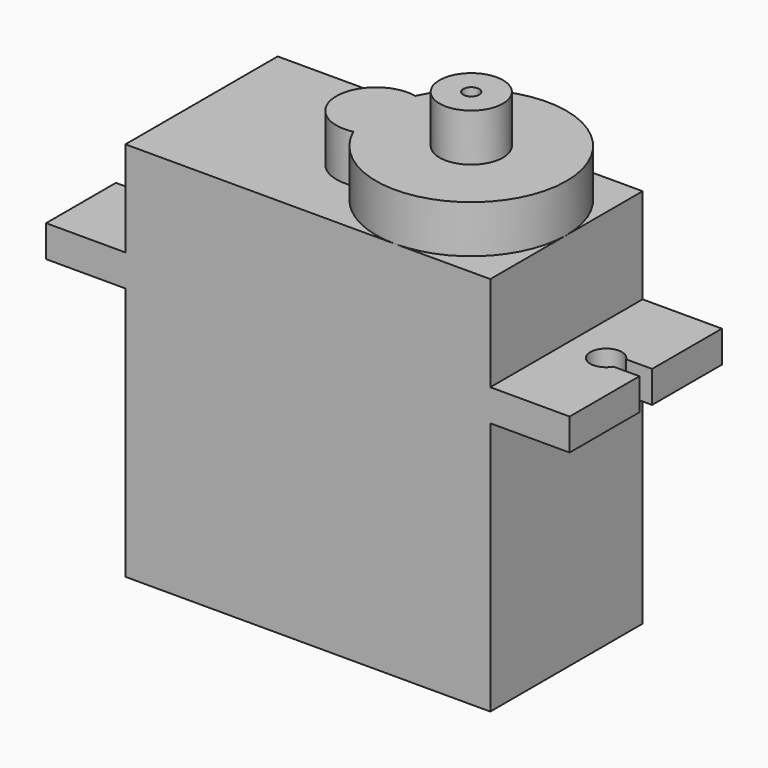
from build123d import *

# Parameters (mm, degrees)
F0_W      = 23
F0_H      = 12
F1_DEPTH  = 16
F2_W      = 33
F2_H      = 12
F3_DEPTH  = 2
F4_W      = 23
F4_H      = 12
F5_DEPTH  = 6
F7_DEPTH  = 3
F8_R      = 2
F9_DEPTH  = 3
F11_DEPTH = 18.001
F12_R     = 0.5
F13_DEPTH = 3


with BuildPart() as f1:
    # F0 (on Top) → F1 (new body)
    with BuildSketch(Plane.XY):
        Rectangle(F0_W, F0_H)
    extrude(amount=F1_DEPTH)

    # F2 (on face) → F3 (join)
    with BuildSketch(Plane.XY.offset(16)):
        Rectangle(F2_W, F2_H)
    extrude(amount=F3_DEPTH)

    # F4 (on face) → F5 (join)
    with BuildSketch(Plane.XY.offset(18)):
        Rectangle(F4_W, F4_H)
    extrude(amount=F5_DEPTH)

    # F6 (on face) → F7 (join)
    with BuildSketch(Plane.XY.offset(24)):
        with BuildLine():
            ThreePointArc((0.0208333333, -2.4451447071), (6.75, -5.8683472972), (11.5, 0))
            ThreePointArc((11.5, 0), (6.75, 5.8683472972), (0.0208333333, 2.4451447071))
            ThreePointArc((0.0208333333, 2.4451447071), (1.4432039694, 1.572882174), (2, 0))
            ThreePointArc((2, 0), (1.4432039694, -1.572882174), (0.0208333333, -2.4451447071))
        make_face()
        with BuildLine():
            ThreePointArc((2, 0), (1.4432039694, 1.572882174), (0.0208333333, 2.4451447071))
            ThreePointArc((0.0208333333, 2.4451447071), (-0.5, 0), (0.0208333333, -2.4451447071))
            ThreePointArc((0.0208333333, -2.4451447071), (1.4432039694, -1.572882174), (2, 0))
        make_face()
        with BuildLine():
            ThreePointArc((0.0208333333, -2.4451447071), (-0.5, 0), (0.0208333333, 2.4451447071))
            ThreePointArc((0.0208333333, 2.4451447071), (-3, 0), (0.0208333333, -2.4451447071))
        make_face()
    extrude(amount=F7_DEPTH)

    # F8 (on face) → F9 (join)
    with BuildSketch(Plane.XY.offset(27)):
        with Locations((5.5, 0)):
            Circle(F8_R)
    extrude(amount=F9_DEPTH)

    # F10 (on face) → F11 (cut, through all)
    with BuildSketch(Plane.XY.offset(18)):
        with BuildLine():
            ThreePointArc((-14.8660254038, -0.5), (-13.7411809549, -0.9659258263), (-13, 0))
            ThreePointArc((-13, 0), (-13.7411809549, 0.9659258263), (-14.8660254038, 0.5))
            Line((-14.8660254038, 0.5), (-14.8660254038, -0.5))
        make_face()
        with BuildLine():
            Line((-14.8660254038, -0.5), (-14.8660254038, 0.5))
            ThreePointArc((-14.8660254038, 0.5), (-15, 0), (-14.8660254038, -0.5))
        make_face()
        with BuildLine():
            ThreePointArc((-14.8660254038, -0.5), (-15, 0), (-14.8660254038, 0.5))
            Line((-14.8660254038, 0.5), (-16.5, 0.5))
            Line((-16.5, 0.5), (-16.5, -0.5))
            Line((-16.5, -0.5), (-14.8660254038, -0.5))
        make_face()
        with BuildLine():
            ThreePointArc((14.8660254038, -0.5), (14.9659258263, -0.2588190451), (15, 0))
            ThreePointArc((15, 0), (14.9659258263, 0.2588190451), (14.8660254038, 0.5))
            Line((14.8660254038, 0.5), (14.8660254038, -0.5))
        make_face()
        with BuildLine():
            ThreePointArc((14.8660254038, 0.5), (14.9659258263, 0.2588190451), (15, 0))
            ThreePointArc((15, 0), (14.9659258263, -0.2588190451), (14.8660254038, -0.5))
            Line((14.8660254038, -0.5), (16.5, -0.5))
            Line((16.5, -0.5), (16.5, 0.5))
            Line((16.5, 0.5), (14.8660254038, 0.5))
        make_face()
        with BuildLine():
            Line((14.8660254038, -0.5), (14.8660254038, 0.5))
            ThreePointArc((14.8660254038, 0.5), (13, 0), (14.8660254038, -0.5))
        make_face()
    extrude(amount=-F11_DEPTH, mode=Mode.SUBTRACT)

    # F12 (on face) → F13 (cut)
    with BuildSketch(Plane.XY.offset(30)):
        with Locations((5.5, 0)):
            Circle(F12_R)
    extrude(amount=-F13_DEPTH, mode=Mode.SUBTRACT)


solid = f1.part
